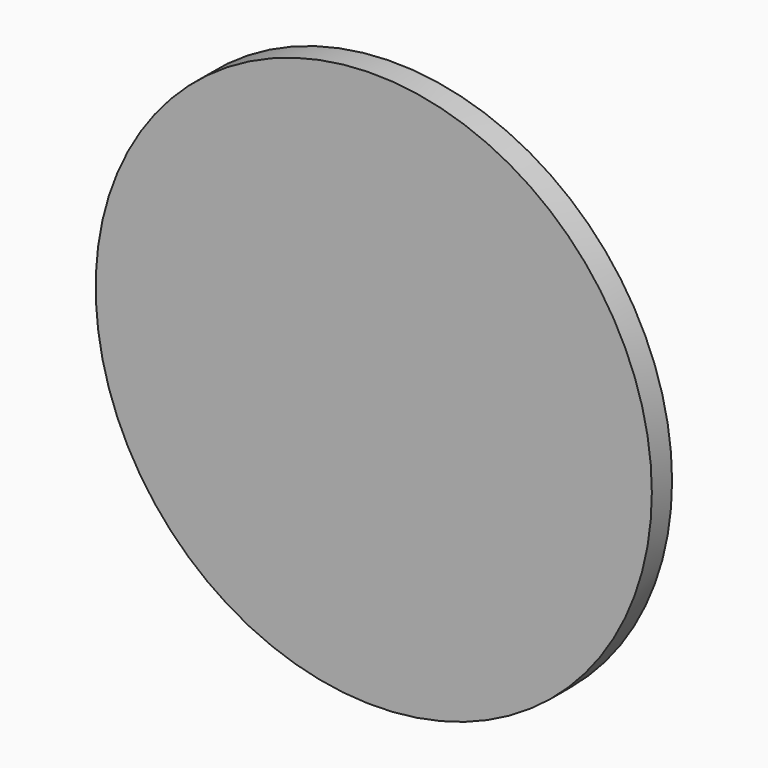
from build123d import *

# Parameters (mm, degrees)
F0_R     = 11
F0_R_2   = 5.5
F1_DEPTH = 1
F0_R_3   = 4
F2_DEPTH = 2
F3_DEPTH = 5


with BuildPart() as f1:
    # F0 (on Front) → F1 (new body)
    with BuildSketch(Plane.XZ):
        Circle(F0_R)
        Circle(F0_R_2, mode=Mode.SUBTRACT)
    extrude(amount=-F1_DEPTH)

    # F0 (on Front) → F2 (join)
    with BuildSketch(Plane.XZ):
        Circle(F0_R_2)
        Circle(F0_R_3, mode=Mode.SUBTRACT)
    extrude(amount=-F2_DEPTH)

    # F0 (on Front) → F3 (join)
    with BuildSketch(Plane.XZ):
        Circle(F0_R_3)
    extrude(amount=-F3_DEPTH)


solid = f1.part
